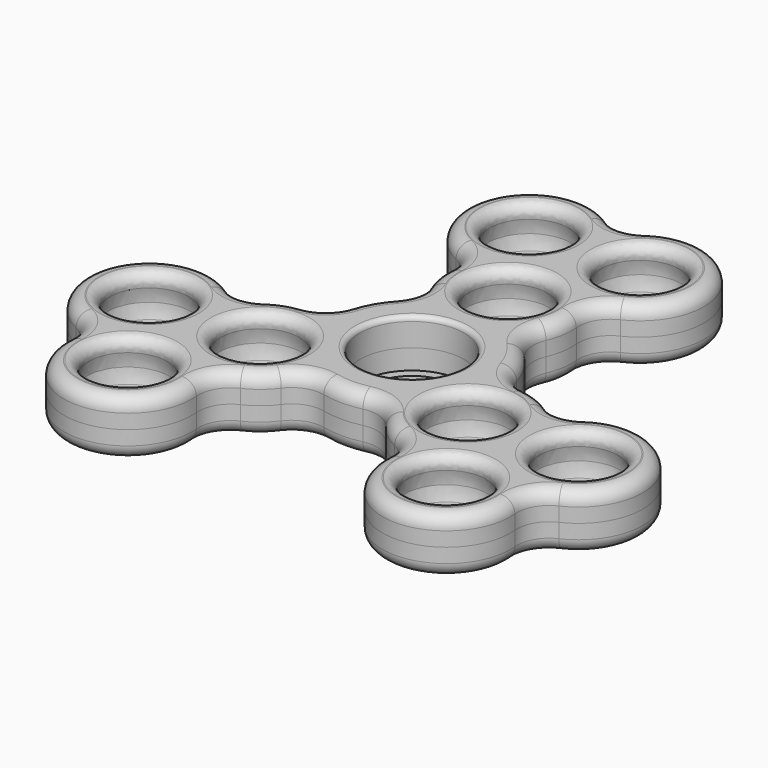
from build123d import *

# Parameters (mm, degrees)
F0_R      = 2.5
F0_R_2    = 6.525
F1_DEPTH  = 3.5
F2_DEPTH  = 3.5
F22_R     = 6.525
F22_R_2   = 5.3868073657
F23_DEPTH = 1
F24_R     = 1.7
F24_2_R   = 1.7
F25_R     = 0.6
F26_R     = 1.32
F26_2_R   = 1.32


with BuildPart() as f1:
    # F0 (on Top) → F1 (new body)
    with BuildSketch(Plane.XY):
        with BuildLine():
            ThreePointArc((62.7314133809, 3.8498463921), (61.4608563371, 1.9491717883), (59.3567896921, 1.0548660774))
            ThreePointArc((59.3567896921, 1.0548660774), (57.405087647, 0.5815289515), (55.6327668025, -0.3629644217))
            ThreePointArc((55.6327668025, -0.3629644217), (53.3233657257, -1.096978098), (51.0139646489, -0.3629644217))
            ThreePointArc((51.0139646489, -0.3629644217), (39.4669592652, -2.8949370692), (43.0477093227, -14.1609233929))
            ThreePointArc((43.0477093227, -14.1609233929), (44.8380843515, -15.7939165547), (45.3571103995, -18.1609233929))
            ThreePointArc((45.3571103995, -18.1609233929), (53.3233657257, -26.8949370692), (61.289621052, -18.1609233929))
            ThreePointArc((61.289621052, -18.1609233929), (61.8086470999, -15.7939165547), (63.5990221287, -14.1609233929))
            ThreePointArc((63.5990221287, -14.1609233929), (65.3031378059, -13.0982952045), (66.6889108041, -11.6447402157))
            ThreePointArc((66.6889108041, -11.6447402157), (68.5154355909, -10.2697179054), (70.796746604, -10.1197205304))
            ThreePointArc((70.796746604, -10.1197205304), (73.2419500127, -10.3949370692), (75.6871534215, -10.1197205304))
            ThreePointArc((75.6871534215, -10.1197205304), (77.9684644346, -10.2697179054), (79.7949892214, -11.6447402157))
            ThreePointArc((79.7949892214, -11.6447402157), (81.1807622196, -13.0982952045), (82.8848778968, -14.1609233929))
            ThreePointArc((82.8848778968, -14.1609233929), (84.6752529255, -15.7939165547), (85.1942789735, -18.1609233929))
            ThreePointArc((85.1942789735, -18.1609233929), (93.1605342998, -26.8949370692), (101.126789626, -18.1609233929))
            ThreePointArc((101.126789626, -18.1609233929), (101.645815674, -15.7939165547), (103.4361907028, -14.1609233929))
            ThreePointArc((103.4361907028, -14.1609233929), (107.0169407603, -2.8949370692), (95.4699353765, -0.3629644217))
            ThreePointArc((95.4699353765, -0.3629644217), (93.1605342998, -1.096978098), (90.851133223, -0.3629644217))
            ThreePointArc((90.851133223, -0.3629644217), (89.0788123785, 0.5815289515), (87.1271103334, 1.0548660774))
            ThreePointArc((87.1271103334, 1.0548660774), (85.0230436884, 1.9491717883), (83.7524866446, 3.8498463921))
            ThreePointArc((83.7524866446, 3.8498463921), (82.7682294544, 6.1050629308), (81.3072832359, 8.0850629308))
            ThreePointArc((81.3072832359, 8.0850629308), (80.2965292666, 10.1357349096), (80.5740711247, 12.4050629308))
            ThreePointArc((80.5740711247, 12.4050629308), (81.1400001716, 14.3319550455), (81.208205339, 16.3390766071))
            ThreePointArc((81.208205339, 16.3390766071), (81.727231387, 18.7060834453), (83.5176064158, 20.3390766071))
            ThreePointArc((83.5176064158, 20.3390766071), (87.0983564733, 31.6050629308), (75.5513510895, 34.1370355783))
            ThreePointArc((75.5513510895, 34.1370355783), (73.2419500127, 33.403021902), (70.932548936, 34.1370355783))
            ThreePointArc((70.932548936, 34.1370355783), (59.3855435522, 31.6050629308), (62.9662936097, 20.3390766071))
            ThreePointArc((62.9662936097, 20.3390766071), (64.7566686385, 18.7060834453), (65.2756946865, 16.3390766071))
            ThreePointArc((65.2756946865, 16.3390766071), (65.3438998539, 14.3319550455), (65.9098289008, 12.4050629308))
            ThreePointArc((65.9098289008, 12.4050629308), (66.1873707589, 10.1357349096), (65.1766167896, 8.0850629308))
            ThreePointArc((65.1766167896, 8.0850629308), (63.7156705711, 6.1050629308), (62.7314133809, 3.8498463921))
        make_face()
        with Locations((53.3233657257, -18.8949370692)):
            Circle(F0_R, mode=Mode.SUBTRACT)
        with Locations((46.3951624954, -6.8949370692)):
            Circle(F0_R, mode=Mode.SUBTRACT)
        with Locations((60.251568956, -6.8949370692)):
            Circle(F0_R, mode=Mode.SUBTRACT)
        with Locations((73.2419500127, 0.6050629308)):
            Circle(F0_R_2, mode=Mode.SUBTRACT)
        with Locations((93.1605342998, -18.8949370692)):
            Circle(F0_R, mode=Mode.SUBTRACT)
        with Locations((86.2323310695, -6.8949370692)):
            Circle(F0_R, mode=Mode.SUBTRACT)
        with Locations((100.0887375301, -6.8949370692)):
            Circle(F0_R, mode=Mode.SUBTRACT)
        with Locations((73.2419500127, 15.6050629308)):
            Circle(F0_R, mode=Mode.SUBTRACT)
        with Locations((66.3137467825, 27.6050629308)):
            Circle(F0_R, mode=Mode.SUBTRACT)
        with Locations((80.170153243, 27.6050629308)):
            Circle(F0_R, mode=Mode.SUBTRACT)
    extrude(amount=F1_DEPTH)


with BuildPart() as f2:
    # F0 (on Top) → F2 (new body)
    with BuildSketch(Plane.XY):
        with BuildLine():
            ThreePointArc((62.7314133809, 3.8498463921), (61.4608563371, 1.9491717883), (59.3567896921, 1.0548660774))
            ThreePointArc((59.3567896921, 1.0548660774), (57.405087647, 0.5815289515), (55.6327668025, -0.3629644217))
            ThreePointArc((55.6327668025, -0.3629644217), (53.3233657257, -1.096978098), (51.0139646489, -0.3629644217))
            ThreePointArc((51.0139646489, -0.3629644217), (39.4669592652, -2.8949370692), (43.0477093227, -14.1609233929))
            ThreePointArc((43.0477093227, -14.1609233929), (44.8380843515, -15.7939165547), (45.3571103995, -18.1609233929))
            ThreePointArc((45.3571103995, -18.1609233929), (53.3233657257, -26.8949370692), (61.289621052, -18.1609233929))
            ThreePointArc((61.289621052, -18.1609233929), (61.8086470999, -15.7939165547), (63.5990221287, -14.1609233929))
            ThreePointArc((63.5990221287, -14.1609233929), (65.3031378059, -13.0982952045), (66.6889108041, -11.6447402157))
            ThreePointArc((66.6889108041, -11.6447402157), (68.5154355909, -10.2697179054), (70.796746604, -10.1197205304))
            ThreePointArc((70.796746604, -10.1197205304), (73.2419500127, -10.3949370692), (75.6871534215, -10.1197205304))
            ThreePointArc((75.6871534215, -10.1197205304), (77.9684644346, -10.2697179054), (79.7949892214, -11.6447402157))
            ThreePointArc((79.7949892214, -11.6447402157), (81.1807622196, -13.0982952045), (82.8848778968, -14.1609233929))
            ThreePointArc((82.8848778968, -14.1609233929), (84.6752529255, -15.7939165547), (85.1942789735, -18.1609233929))
            ThreePointArc((85.1942789735, -18.1609233929), (93.1605342998, -26.8949370692), (101.126789626, -18.1609233929))
            ThreePointArc((101.126789626, -18.1609233929), (101.645815674, -15.7939165547), (103.4361907028, -14.1609233929))
            ThreePointArc((103.4361907028, -14.1609233929), (107.0169407603, -2.8949370692), (95.4699353765, -0.3629644217))
            ThreePointArc((95.4699353765, -0.3629644217), (93.1605342998, -1.096978098), (90.851133223, -0.3629644217))
            ThreePointArc((90.851133223, -0.3629644217), (89.0788123785, 0.5815289515), (87.1271103334, 1.0548660774))
            ThreePointArc((87.1271103334, 1.0548660774), (85.0230436884, 1.9491717883), (83.7524866446, 3.8498463921))
            ThreePointArc((83.7524866446, 3.8498463921), (82.7682294544, 6.1050629308), (81.3072832359, 8.0850629308))
            ThreePointArc((81.3072832359, 8.0850629308), (80.2965292666, 10.1357349096), (80.5740711247, 12.4050629308))
            ThreePointArc((80.5740711247, 12.4050629308), (81.1400001716, 14.3319550455), (81.208205339, 16.3390766071))
            ThreePointArc((81.208205339, 16.3390766071), (81.727231387, 18.7060834453), (83.5176064158, 20.3390766071))
            ThreePointArc((83.5176064158, 20.3390766071), (87.0983564733, 31.6050629308), (75.5513510895, 34.1370355783))
            ThreePointArc((75.5513510895, 34.1370355783), (73.2419500127, 33.403021902), (70.932548936, 34.1370355783))
            ThreePointArc((70.932548936, 34.1370355783), (59.3855435522, 31.6050629308), (62.9662936097, 20.3390766071))
            ThreePointArc((62.9662936097, 20.3390766071), (64.7566686385, 18.7060834453), (65.2756946865, 16.3390766071))
            ThreePointArc((65.2756946865, 16.3390766071), (65.3438998539, 14.3319550455), (65.9098289008, 12.4050629308))
            ThreePointArc((65.9098289008, 12.4050629308), (66.1873707589, 10.1357349096), (65.1766167896, 8.0850629308))
            ThreePointArc((65.1766167896, 8.0850629308), (63.7156705711, 6.1050629308), (62.7314133809, 3.8498463921))
        make_face()
        with Locations((53.3233657257, -18.8949370692)):
            Circle(F0_R, mode=Mode.SUBTRACT)
        with Locations((46.3951624954, -6.8949370692)):
            Circle(F0_R, mode=Mode.SUBTRACT)
        with Locations((60.251568956, -6.8949370692)):
            Circle(F0_R, mode=Mode.SUBTRACT)
        with Locations((73.2419500127, 0.6050629308)):
            Circle(F0_R_2, mode=Mode.SUBTRACT)
        with Locations((93.1605342998, -18.8949370692)):
            Circle(F0_R, mode=Mode.SUBTRACT)
        with Locations((86.2323310695, -6.8949370692)):
            Circle(F0_R, mode=Mode.SUBTRACT)
        with Locations((100.0887375301, -6.8949370692)):
            Circle(F0_R, mode=Mode.SUBTRACT)
        with Locations((73.2419500127, 15.6050629308)):
            Circle(F0_R, mode=Mode.SUBTRACT)
        with Locations((66.3137467825, 27.6050629308)):
            Circle(F0_R, mode=Mode.SUBTRACT)
        with Locations((80.170153243, 27.6050629308)):
            Circle(F0_R, mode=Mode.SUBTRACT)
    extrude(amount=-F2_DEPTH)


with BuildPart() as f4:
    # F3 (on face) → F4 (revolve)
    with BuildSketch(Plane.XY):
        with BuildLine():
            Line((53.3233657257, -24.1249370692), (53.3233657257, -18.8949370692))
            Line((53.3233657257, -18.8949370692), (53.3233657257, -13.6649370692))
            ThreePointArc((53.3233657257, -13.6649370692), (48.0933657257, -18.8949370692), (53.3233657257, -24.1249370692))
        make_face()
    revolve(axis=Axis((53.3233657257, -16.2799370692, 0), (0, 1, 0)))


with BuildPart() as f7:
    # F6 (on face) → F7 (revolve)
    with BuildSketch(Plane.XY):
        with BuildLine():
            Line((93.1605342998, -24.1249370692), (93.1605342998, -18.8949370692))
            Line((93.1605342998, -18.8949370692), (93.1605342998, -13.6649370692))
            ThreePointArc((93.1605342998, -13.6649370692), (87.9305342998, -18.8949370692), (93.1605342998, -24.1249370692))
        make_face()
    revolve(axis=Axis((93.1605342998, -16.2799370692, 0), (0, 1, 0)))


with BuildPart() as f9:
    # F8 (on face) → F9 (revolve)
    with BuildSketch(Plane.XY):
        with BuildLine():
            Line((86.2323310695, -12.1249370692), (86.2323310695, -6.8949370692))
            Line((86.2323310695, -6.8949370692), (86.2323310695, -1.6649370692))
            ThreePointArc((86.2323310695, -1.6649370692), (81.0023310695, -6.8949370692), (86.2323310695, -12.1249370692))
        make_face()
    revolve(axis=Axis((86.2323310695, -4.2799370692, 0), (0, 1, 0)))


with BuildPart() as f11:
    # F10 (on face) → F11 (revolve)
    with BuildSketch(Plane.XY):
        with BuildLine():
            Line((100.0887375301, -12.1249370692), (100.0887375301, -6.8949370692))
            Line((100.0887375301, -6.8949370692), (100.0887375301, -1.6649370692))
            ThreePointArc((100.0887375301, -1.6649370692), (94.8587375301, -6.8949370692), (100.0887375301, -12.1249370692))
        make_face()
    revolve(axis=Axis((100.0887375301, -9.5099370692, 0), (0, -1, 0)))


with BuildPart() as f13:
    # F12 (on face) → F13 (revolve)
    with BuildSketch(Plane.XY):
        with BuildLine():
            Line((73.2419500127, 10.3750629308), (73.2419500127, 15.6050629308))
            Line((73.2419500127, 15.6050629308), (73.2419500127, 20.8350629308))
            ThreePointArc((73.2419500127, 20.8350629308), (68.0119500127, 15.6050629308), (73.2419500127, 10.3750629308))
        make_face()
    revolve(axis=Axis((73.2419500127, 12.9900629308, 0), (0, -1, 0)))


with BuildPart() as f15:
    # F14 (on face) → F15 (revolve)
    with BuildSketch(Plane.XY):
        with BuildLine():
            Line((66.3137467825, 22.3550629308), (66.3137467825, 27.6050629308))
            Line((66.3137467825, 27.6050629308), (66.3137467825, 32.8550629308))
            ThreePointArc((66.3137467825, 32.8550629308), (61.0637467825, 27.6050629308), (66.3137467825, 22.3550629308))
        make_face()
    revolve(axis=Axis((66.3137467825, 24.9800629308, 0), (0, -1, 0)))


with BuildPart() as f17:
    # F5 (on face) → F17 (revolve)
    with BuildSketch(Plane.XY):
        with BuildLine():
            Line((60.251568956, -12.1449370692), (60.251568956, -9.3949370692))
            ThreePointArc((60.251568956, -9.3949370692), (57.751568956, -6.8949370692), (60.251568956, -4.3949370692))
            Line((60.251568956, -4.3949370692), (60.251568956, -1.6449370692))
            ThreePointArc((60.251568956, -1.6449370692), (55.001568956, -6.8949370692), (60.251568956, -12.1449370692))
        make_face()
        with BuildLine():
            Line((60.251568956, -9.3949370692), (60.251568956, -6.8949370692))
            Line((60.251568956, -6.8949370692), (60.251568956, -4.3949370692))
            ThreePointArc((60.251568956, -4.3949370692), (57.751568956, -6.8949370692), (60.251568956, -9.3949370692))
        make_face()
    revolve(axis=Axis((60.251568956, -4.2699370692, 0), (0, 1, 0)))


with BuildPart() as f18:
    # F16 (on face) → F18 (revolve)
    with BuildSketch(Plane.XY):
        with BuildLine():
            Line((80.170153243, 22.3750629308), (80.170153243, 25.1050629308))
            ThreePointArc((80.170153243, 25.1050629308), (77.670153243, 27.6050629308), (80.170153243, 30.1050629308))
            Line((80.170153243, 30.1050629308), (80.170153243, 32.8350629308))
            ThreePointArc((80.170153243, 32.8350629308), (74.940153243, 27.6050629308), (80.170153243, 22.3750629308))
        make_face()
        with BuildLine():
            Line((80.170153243, 25.1050629308), (80.170153243, 27.6050629308))
            Line((80.170153243, 27.6050629308), (80.170153243, 30.1050629308))
            ThreePointArc((80.170153243, 30.1050629308), (77.670153243, 27.6050629308), (80.170153243, 25.1050629308))
        make_face()
    revolve(axis=Axis((80.170153243, 24.9900629308, 0), (0, -1, 0)))


with BuildPart() as f20:
    # F19 (on face) → F20 (revolve)
    with BuildSketch(Plane.XY):
        with BuildLine():
            Line((46.3951624954, -12.1249370692), (46.3951624954, -6.8949370692))
            Line((46.3951624954, -6.8949370692), (46.3951624954, -1.6649370692))
            ThreePointArc((46.3951624954, -1.6649370692), (41.1651624954, -6.8949370692), (46.3951624954, -12.1249370692))
        make_face()
    revolve(axis=Axis((46.3951624954, -9.5099370692, 0), (0, -1, 0)))


with BuildPart() as f1_1:
    add(f1.part)

    # F21: cut F15, F18, F13, F9, F11, F20, F17, F4, F7
    add(f15.part, mode=Mode.SUBTRACT)
    add(f18.part, mode=Mode.SUBTRACT)
    add(f13.part, mode=Mode.SUBTRACT)
    add(f9.part, mode=Mode.SUBTRACT)
    add(f11.part, mode=Mode.SUBTRACT)
    add(f20.part, mode=Mode.SUBTRACT)
    add(f17.part, mode=Mode.SUBTRACT)
    add(f4.part, mode=Mode.SUBTRACT)
    add(f7.part, mode=Mode.SUBTRACT)

    # F24
    f24_edges = [f1_1.edges().sort_by_distance(p)[0] for p in [
        (87.098356, 31.605063, 3.5),
    ]]
    fillet(f24_edges, radius=F24_R)

    # F25
    f25_edges = [f1_1.edges().sort_by_distance(p)[0] for p in [
        (66.71695, 0.605063, 3.5),
    ]]
    fillet(f25_edges, radius=F25_R)

    # F26
    f26_edges = [f1_1.edges().sort_by_distance(p)[0] for p in [
        (93.160534, -15.008692, 3.5),
        (86.232331, -3.008692, 3.5),
        (100.088738, -3.008692, 3.5),
        (53.323366, -15.008692, 3.5),
        (46.395162, -3.008692, 3.5),
        (60.251569, -2.981818, 3.5),
        (73.24195, 19.491308, 3.5),
        (66.313747, 31.518182, 3.5),
        (80.170153, 31.491308, 3.5),
    ]]
    fillet(f26_edges, radius=F26_R)


with BuildPart() as f2_1:
    add(f2.part)

    # F21: cut F15, F18, F13, F9, F11, F20, F17, F4, F7
    add(f15.part, mode=Mode.SUBTRACT)
    add(f18.part, mode=Mode.SUBTRACT)
    add(f13.part, mode=Mode.SUBTRACT)
    add(f9.part, mode=Mode.SUBTRACT)
    add(f11.part, mode=Mode.SUBTRACT)
    add(f20.part, mode=Mode.SUBTRACT)
    add(f17.part, mode=Mode.SUBTRACT)
    add(f4.part, mode=Mode.SUBTRACT)
    add(f7.part, mode=Mode.SUBTRACT)

    # F24#2
    f24_2_edges = [f2_1.edges().sort_by_distance(p)[0] for p in [
        (87.098356, 31.605063, -3.5),
    ]]
    fillet(f24_2_edges, radius=F24_2_R)

    # F26#2
    f26_2_edges = [f2_1.edges().sort_by_distance(p)[0] for p in [
        (53.323366, -15.008692, -3.5),
        (46.395162, -3.008692, -3.5),
        (60.251569, -2.981818, -3.5),
        (86.232331, -3.008692, -3.5),
        (93.160534, -15.008692, -3.5),
        (100.088738, -3.008692, -3.5),
        (73.24195, 19.491308, -3.5),
        (80.170153, 31.491308, -3.5),
        (66.313747, 31.518182, -3.5),
    ]]
    fillet(f26_2_edges, radius=F26_2_R)


with BuildPart() as f23:
    # F22 (on face) → F23 (new body)
    with BuildSketch(Plane(origin=(0, 0, -3.5), x_dir=(1, 0, 0), z_dir=(0, 0, -1))):
        with Locations((73.2419500127, -0.6050629308)):
            Circle(F22_R)
        with Locations((73.2419500127, -0.6050629308)):
            Circle(F22_R_2, mode=Mode.SUBTRACT)
    extrude(amount=-F23_DEPTH)


solid = Compound([f1_1.part, f2_1.part, f23.part])
